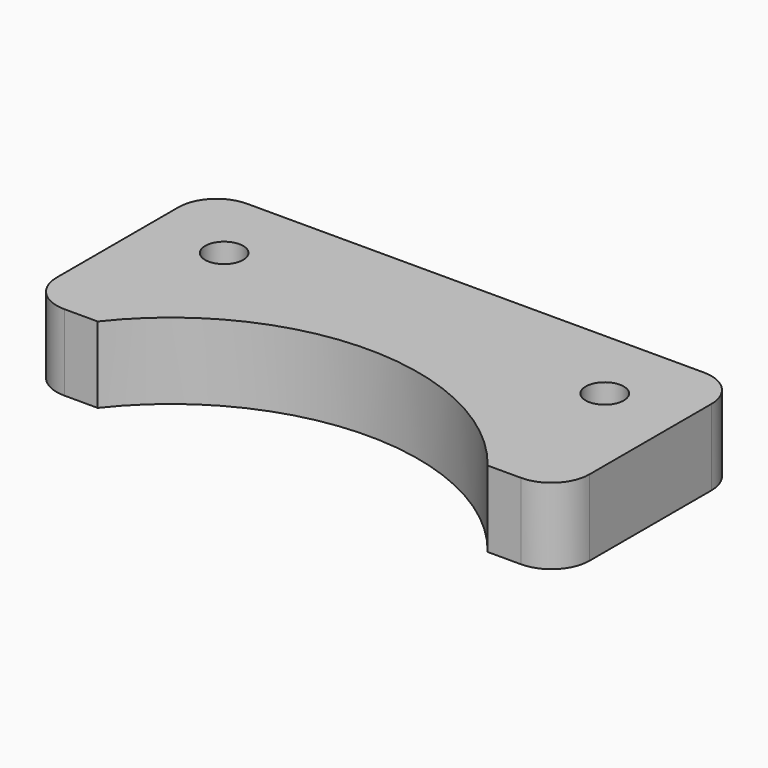
from build123d import *

# Parameters (mm, degrees)
F0_R     = 2.5
F1_DEPTH = 10


with BuildPart() as f1:
    # F0 (on Top) → F1 (new body)
    with BuildSketch(Plane.XY):
        with BuildLine():
            Line((30, 50), (-30, 50))
            ThreePointArc((-30, 50), (-33.535534, 48.535534), (-35, 45))
            Line((-35, 45), (-35, 25))
            ThreePointArc((-35, 25), (-33.535534, 21.464466), (-30, 20))
            Line((-30, 20), (-25.617377, 20))
            ThreePointArc((-25.617377, 20), (0, 32.5), (25.617377, 20))
            Line((25.617377, 20), (30, 20))
            ThreePointArc((30, 20), (33.535534, 21.464466), (35, 25))
            Line((35, 25), (35, 45))
            ThreePointArc((35, 45), (33.535534, 48.535534), (30, 50))
        make_face()
        with Locations((-25, 40)):
            Circle(F0_R, mode=Mode.SUBTRACT)
        with Locations((25, 40)):
            Circle(F0_R, mode=Mode.SUBTRACT)
    extrude(amount=F1_DEPTH)


solid = f1.part
